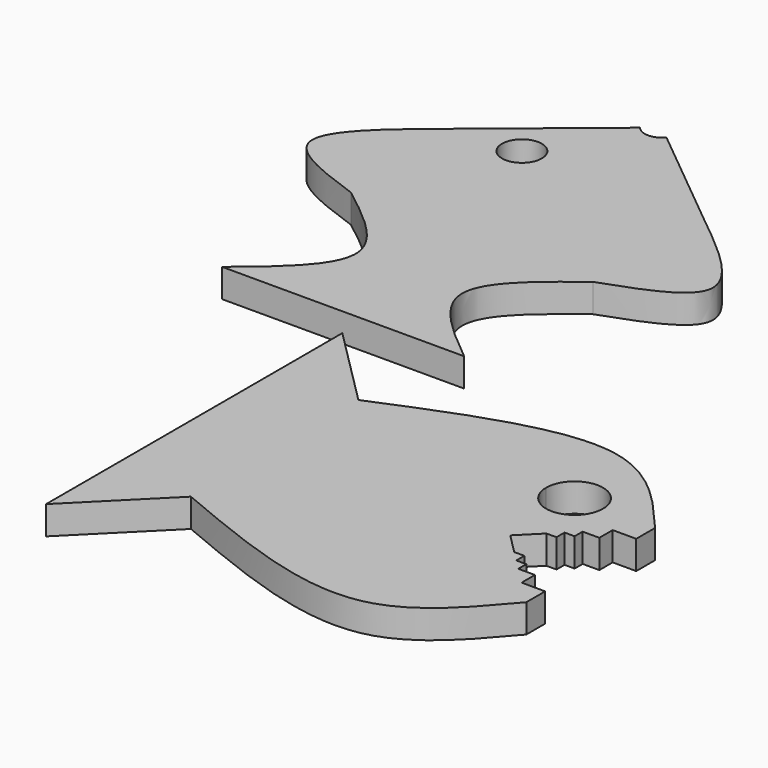
from build123d import *

# Parameters (mm, degrees)
F0_R     = 3.5
F1_DEPTH = 5
F3_DEPTH = 5


with BuildPart() as f1:
    # F0 (on Top) → F1 (new body)
    with BuildSketch(Plane.XY):
        with BuildLine():
            Line((-42.5426512957, 0), (0, 0))
            add(Edge.make_bspline(
                [(0, 0), (-5.9723485636, 4.8846561298), (-17.8262648049, 14.5797181406), (-5.9116725738, 23.7522278051), (0, 28.3033587039)],
                knots=[0, 0, 0, 0, 0.503829164, 1, 1, 1, 1], degree=3))
            add(Edge.make_bspline(
                [(0, 28.3033587039), (6.6567072616, 30.6686100806), (20.9042106237, 35.7310122396), (7.2661112302, 46.7180524748), (0, 52.5717362761)],
                knots=[0, 0, 0, 0, 0.467219258, 1, 1, 1, 1], degree=3))
            Line((0, 52.5717362761), (-18.9522210256, 68.1242011959))
            ThreePointArc((-18.9522210256, 68.1242011959), (-21.2713256478, 67.0272917747), (-23.59043027, 68.1242011959))
            Line((-23.59043027, 68.1242011959), (-42.5426512957, 52.5717362761))
            add(Edge.make_bspline(
                [(-42.5426512957, 28.3033587039), (-49.1993585573, 30.6686100806), (-63.4468619193, 35.7310122396), (-49.8087625258, 46.7180524748), (-42.5426512957, 52.5717362761)],
                knots=[0, 0, 0, 0, 0.467219258, 1, 1, 1, 1], degree=3))
            add(Edge.make_bspline(
                [(-42.5426512957, 0), (-36.5703027321, 4.8846561298), (-24.7163864907, 14.5797181406), (-36.6309787218, 23.7522278051), (-42.5426512957, 28.3033587039)],
                knots=[0, 0, 0, 0, 0.503829164, 1, 1, 1, 1], degree=3))
        make_face()
        with Locations((-31.9069884717, 52.5717362761)):
            Circle(F0_R, mode=Mode.SUBTRACT)
    extrude(amount=F1_DEPTH)


with BuildPart() as f3:
    # F2 (on Top) → F3 (new body)
    with BuildSketch(Plane.XY):
        Polygon((52.3208206332, -27.6070432306), (52.3208206332, -23.4649076069), (48.1786850095, -27.6070432306), align=None)
        Polygon((48.1786850095, -27.6070432306), (45.2497528213, -30.5359754188), (48.1786850095, -30.5359754188), align=None)
        Polygon((45.2497528213, -30.5359754188), (43.4819858684, -32.3037423717), (45.2497528213, -32.3037423717), align=None)
        Polygon((43.4819858684, -32.3037423717), (41.7142189154, -34.0715093247), (43.4819858684, -34.0715093247), align=None)
        Polygon((45.2497528213, -42.9103440895), (43.4819858684, -42.9103440895), (45.2497528213, -44.6781110425), align=None)
        Polygon((48.1786850095, -44.6781110425), (45.2497528213, -44.6781110425), (48.1786850095, -47.6070432306), align=None)
        Polygon((52.3208206332, -47.6070432306), (48.1786850095, -47.6070432306), (52.3208206332, -51.7491788544), align=None)
        Polygon((43.4819858684, -41.1425771366), (41.7142189154, -41.1425771366), (43.4819858684, -42.9103440895), align=None)
        with BuildLine():
            Line((38.1786850095, -28.4649076069), (38.1786850095, -37.6070432306))
            Line((38.1786850095, -37.6070432306), (41.7142189154, -34.0715093247))
            Line((41.7142189154, -34.0715093247), (43.4819858684, -32.3037423717))
            Line((43.4819858684, -32.3037423717), (45.2497528213, -30.5359754188))
            Line((45.2497528213, -30.5359754188), (48.1786850095, -27.6070432306))
            Line((48.1786850095, -27.6070432306), (52.3208206332, -23.4649076069))
            Line((52.3208206332, -23.4649076069), (43.1786850095, -23.4649076069))
            ThreePointArc((43.1786850095, -23.4649076069), (41.7142189154, -27.0004415128), (38.1786850095, -28.4649076069))
        make_face()
        with BuildLine():
            Line((41.7142189154, -41.1425771366), (38.1786850095, -37.6070432306))
            Line((38.1786850095, -37.6070432306), (38.1786850095, -28.4649076069))
            ThreePointArc((38.1786850095, -28.4649076069), (34.6431511035, -27.0004415128), (33.1786850095, -23.4649076069))
            ThreePointArc((33.1786850095, -23.4649076069), (38.1786850095, -18.4649076069), (43.1786850095, -23.4649076069))
            Line((43.1786850095, -23.4649076069), (52.3208206332, -23.4649076069))
            add(Edge.make_bspline(
                [(52.3208206332, -23.4649076069), (47.1346856365, -17.3300638089), (35.1532147018, -3.1568037235), (10.6690169358, -13.4018273342), (-3.217285499, -19.2123241723)],
                knots=[0, 0, 0, 0, 0.4328464418, 1, 1, 1, 1], degree=3))
            Line((-3.217285499, -19.2123241723), (-17.3594211227, -5.0701885485))
            Line((-17.3594211227, -5.0701885485), (-17.3594211227, -70.1438979128))
            Line((-17.3594211227, -70.1438979128), (-3.217285499, -56.001762289))
            add(Edge.make_bspline(
                [(52.3208206332, -51.7491788544), (47.1346856365, -57.8840226524), (35.1532147018, -72.0572827378), (10.6690169358, -61.8122591271), (-3.217285499, -56.001762289)],
                knots=[0, 0, 0, 0, 0.4328464418, 1, 1, 1, 1], degree=3))
            Line((52.3208206332, -51.7491788544), (48.1786850095, -47.6070432306))
            Line((48.1786850095, -47.6070432306), (45.2497528213, -44.6781110425))
            Line((45.2497528213, -44.6781110425), (43.4819858684, -42.9103440895))
            Line((43.4819858684, -42.9103440895), (41.7142189154, -41.1425771366))
        make_face()
    extrude(amount=F3_DEPTH)


solid = Compound([f1.part, f3.part])
